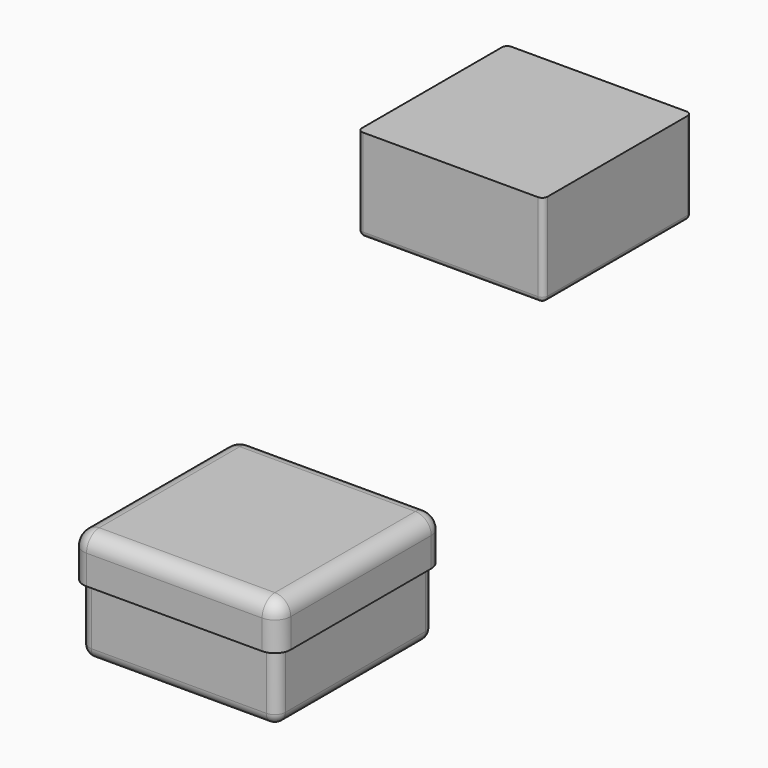
from build123d import *

# Parameters (mm, degrees)
SKETCH_W                     = 70
SKETCH_H                     = 70
PAD_DEPTH                    = 35
FILLET_R                     = 2
THICKNESS_T                  = 2
SKETCH001_W                  = 70
SKETCH001_H                  = 70
PAD001_DEPTH                 = 35
FILLET001_R                  = 2
SKETCH002_W                  = 74.2
SKETCH002_H                  = 74.2
PAD002_DEPTH                 = 15
FILLET002_R                  = 4
THICKNESS001_T               = 2
THICKNESS001_PLACEMENT_ANGLE = 180


with BuildPart() as caja:
    # Sketch → Pad (new body)
    with BuildSketch(Plane.XY):
        with Locations((35, -35)):
            Rectangle(SKETCH_W, SKETCH_H)
    extrude(amount=PAD_DEPTH)

    # Fillet
    fillet_edges = [caja.edges().sort_by_distance(p)[0] for p in [
        (70, 0, 17.5),
        (35, 0, 0),
        (0, 0, 17.5),
        (0, -35, 0),
        (0, -70, 17.5),
        (35, -70, 0),
        (70, -70, 17.5),
        (70, -35, 0),
    ]]
    fillet(fillet_edges, radius=FILLET_R)

    # Thickness
    thickness_openings = [caja.faces().sort_by_distance(p)[0] for p in [
        (35, -35, 35),
    ]]
    offset(amount=THICKNESS_T, openings=thickness_openings)


with BuildPart() as caja_1:
    # Thickness placement: moved
    add(caja.part.moved(Location((-45.228069, -69.523186, -123.947014))))


with BuildPart() as fillet001:
    # Sketch001 → Pad001 (new body)
    with BuildSketch(Plane.XY):
        with Locations((35, -35)):
            Rectangle(SKETCH001_W, SKETCH001_H)
    extrude(amount=PAD001_DEPTH)

    # Fillet001
    fillet001_edges = [fillet001.edges().sort_by_distance(p)[0] for p in [
        (70, 0, 17.5),
        (35, 0, 0),
        (0, 0, 17.5),
        (0, -35, 0),
        (0, -70, 17.5),
        (35, -70, 0),
        (70, -70, 17.5),
        (70, -35, 0),
    ]]
    fillet(fillet001_edges, radius=FILLET001_R)


with BuildPart() as tapa:
    # Sketch002 → Pad002 (new body)
    with BuildSketch(Plane.XY):
        with Locations((49.773642, -37.1)):
            Rectangle(SKETCH002_W, SKETCH002_H)
    extrude(amount=PAD002_DEPTH)

    # Fillet002
    fillet002_edges = [tapa.edges().sort_by_distance(p)[0] for p in [
        (12.673642, -74.2, 7.5),
        (86.873642, -74.2, 7.5),
        (86.873642, 0, 7.5),
        (49.773642, -74.2, 0),
        (86.873642, -37.1, 0),
        (12.673642, -37.1, 0),
        (12.673642, 0, 7.5),
        (49.773642, 0, 0),
    ]]
    fillet(fillet002_edges, radius=FILLET002_R)

    # Thickness001
    thickness001_openings = [tapa.faces().sort_by_distance(p)[0] for p in [
        (49.773642, -37.1, 15),
    ]]
    offset(amount=THICKNESS001_T, openings=thickness001_openings)


with BuildPart() as tapa_1:
    # Thickness001 placement: moved
    add(tapa.part.moved(Location((39.545573, -67.423186, -85.447014))).rotate(Axis((39.545573, -67.423186, -85.447014), (0, 1, 0)), THICKNESS001_PLACEMENT_ANGLE))


solid = Compound([caja_1.part, fillet001.part, tapa_1.part])
